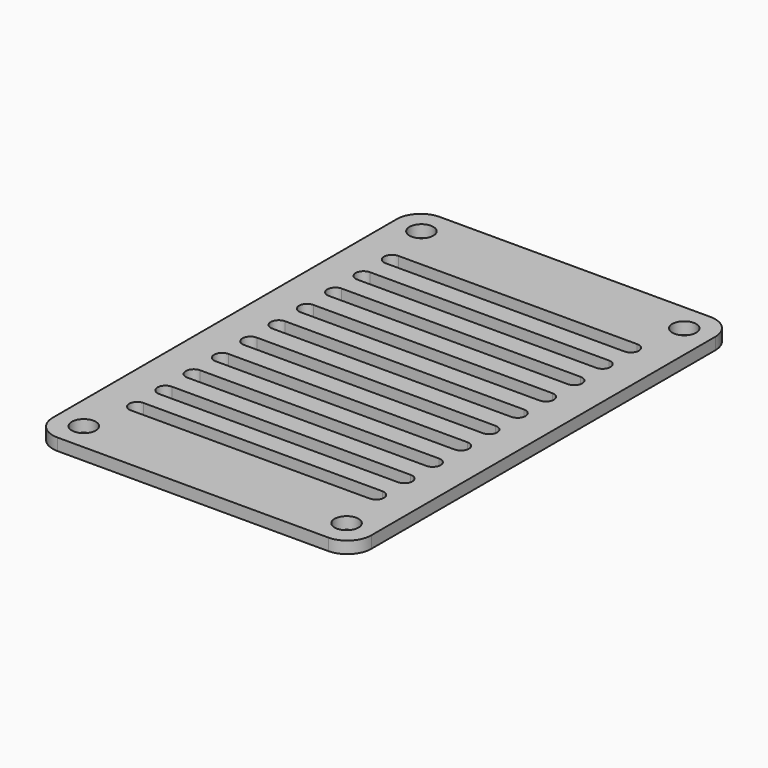
from build123d import *

# Parameters (mm, degrees)
PAD_DEPTH           = 1.5
POCKET_DEPTH        = 5
LINEARPATTERN_COUNT = 10
LINEARPATTERN_PITCH = 4.444444
SKETCH002_R         = 1.5
POCKET001_DEPTH     = 5


with BuildPart() as part:
    # Sketch → Pad (new body)
    with BuildSketch(Plane.XY):
        with BuildLine():
            Line((-17, 30), (17, 30))
            ThreePointArc((20, 27), (19.12132, 29.12132), (17, 30))
            Line((20, 27), (20, -27))
            ThreePointArc((17, -30), (19.12132, -29.12132), (20, -27))
            Line((17, -30), (-17, -30))
            ThreePointArc((-20, -27), (-19.12132, -29.12132), (-17, -30))
            Line((-20, -27), (-20, 27))
            ThreePointArc((-17, 30), (-19.12132, 29.12132), (-20, 27))
        make_face()
    extrude(amount=PAD_DEPTH)

    # Sketch001 (on Face10 of Pad) → Pocket (cut)
    with BuildSketch(Plane.XY.offset(1.5)):
        with BuildLine():
            ThreePointArc((-15, 21), (-16, 20), (-15, 19))
            Line((-15, 19), (15, 19))
            ThreePointArc((15, 19), (16, 20), (15, 21))
            Line((15, 21), (-15, 21))
        make_face()
    pocket = extrude(amount=-POCKET_DEPTH, mode=Mode.SUBTRACT)

    # LinearPattern: Pocket ×10
    with Locations(*[(0, -i * LINEARPATTERN_PITCH, 0) for i in range(1, LINEARPATTERN_COUNT)]):
        add(pocket, mode=Mode.SUBTRACT)

    # Sketch002 (on Face5 of LinearPattern) → Pocket001 (cut)
    with BuildSketch(Plane.XY.offset(1.5)):
        with Locations((-16.5, 26.5)):
            Circle(SKETCH002_R)
        with Locations((16.5, 26.5)):
            Circle(SKETCH002_R)
        with Locations((16.5, -26.5)):
            Circle(SKETCH002_R)
        with Locations((-16.5, -26.5)):
            Circle(SKETCH002_R)
    extrude(amount=-POCKET001_DEPTH, mode=Mode.SUBTRACT)


solid = part.part
